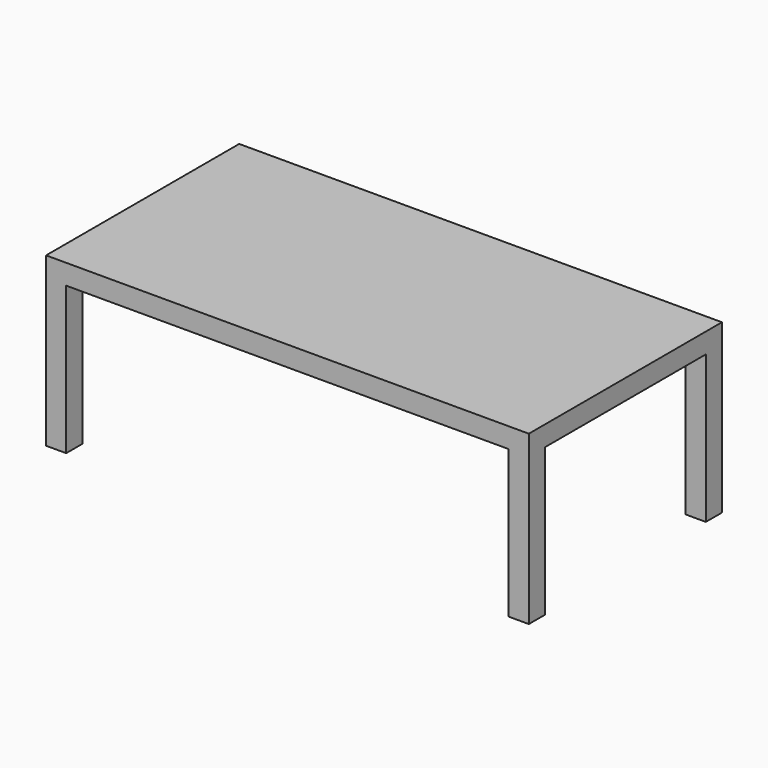
from build123d import *

# Parameters (mm, degrees)
F0_W     = 1828.8
F0_H     = 914.4
F1_DEPTH = 635
F3_DEPTH = 558.8


with BuildPart() as f1:
    # F0 (on Top) → F1 (new body)
    with BuildSketch(Plane.XY):
        Rectangle(F0_W, F0_H)
    extrude(amount=F1_DEPTH)

    # F2 (on face) → F3 (cut)
    with BuildSketch(Plane(origin=(0, 0, 0), x_dir=(1, 0, 0), z_dir=(0, 0, -1))):
        Polygon((838.2, 457.2), (-838.2, 457.2), (-838.2, 381), (-914.4, 381), (-914.4, -381), (-838.2, -381), (-838.2, -457.2), (838.2, -457.2), (838.2, -381), (914.4, -381), (914.4, 381), (838.2, 381), align=None)
    extrude(amount=-F3_DEPTH, mode=Mode.SUBTRACT)


solid = f1.part
